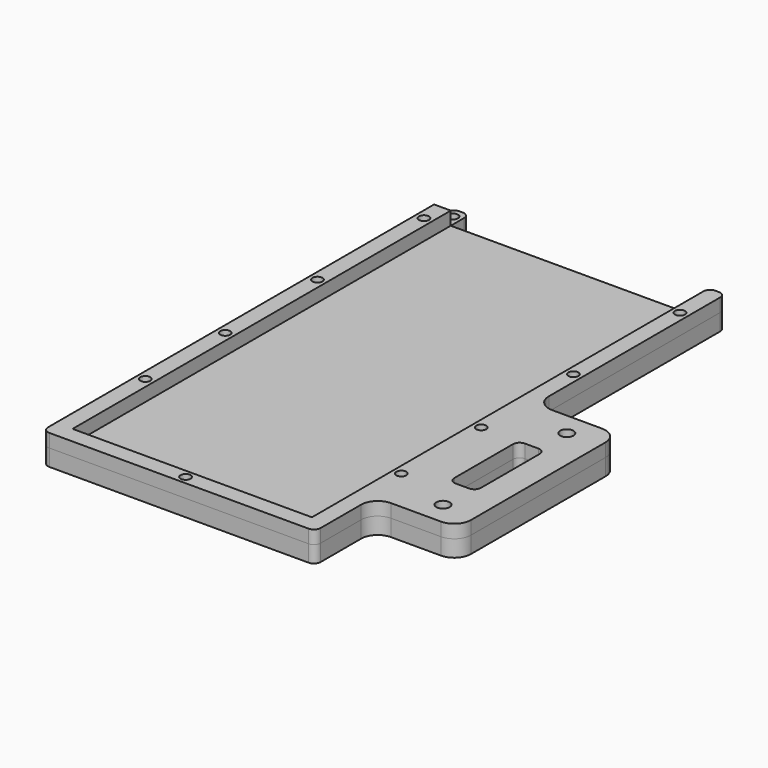
from build123d import *

# Parameters (mm, degrees)
F0_R     = 1.5
F0_R_2   = 2
F1_DEPTH = 9
F0_W     = 71.9
F0_H     = 142
F2_DEPTH = 5


with BuildPart() as f1:
    # F0 (on Top) → F1 (new body)
    with BuildSketch(Plane.XY):
        with BuildLine():
            Line((-46.151969, -60.459562), (-46.151969, 81.540438))
            Line((-46.151969, 81.540438), (-51.151969, 81.540438))
            Line((-51.151969, 81.540438), (-51.151969, -57.287913))
            Line((-51.151969, -57.287913), (-51.151969, -63.459562))
            ThreePointArc((-51.151969, -63.459562), (-50.566182, -64.873775), (-49.151969, -65.459562))
            Line((-49.151969, -65.459562), (28.748031, -65.459562))
            ThreePointArc((28.748031, -65.459562), (30.162245, -64.873775), (30.748031, -63.459562))
            Line((30.748031, -63.459562), (30.748031, -60.459562))
            Line((30.748031, -60.459562), (30.748031, -48.25))
            ThreePointArc((30.748031, -48.25), (32.212498, -44.714466), (35.748031, -43.25))
            Line((35.748031, -43.25), (50.748031, -43.25))
            ThreePointArc((50.748031, -43.25), (54.283565, -41.785534), (55.748031, -38.25))
            Line((55.748031, -38.25), (55.748031, 12.25))
            ThreePointArc((55.748031, 12.25), (54.283565, 15.785534), (50.748031, 17.25))
            Line((50.748031, 17.25), (35.748031, 17.25))
            ThreePointArc((35.748031, 17.25), (32.212498, 18.714466), (30.748031, 22.25))
            Line((30.748031, 22.25), (30.748031, 86.540438))
            ThreePointArc((30.748031, 86.540438), (30.162245, 87.954652), (28.748031, 88.540438))
            Line((28.748031, 88.540438), (27.748031, 88.540438))
            ThreePointArc((27.748031, 88.540438), (26.333818, 87.954652), (25.748031, 86.540438))
            Line((25.748031, 86.540438), (25.748031, 81.540438))
            Line((25.748031, 81.540438), (25.748031, -60.459562))
            Line((25.748031, -60.459562), (-46.151969, -60.459562))
        make_face()
        with Locations((-48.651969, -30)):
            Circle(F0_R, mode=Mode.SUBTRACT)
        with Locations((-10.201969, -62.959562)):
            Circle(F0_R, mode=Mode.SUBTRACT)
        with Locations((-48.651969, 0)):
            Circle(F0_R, mode=Mode.SUBTRACT)
        with Locations((28.248031, -30)):
            Circle(F0_R, mode=Mode.SUBTRACT)
        with Locations((45.748031, -36.25)):
            Circle(F0_R_2, mode=Mode.SUBTRACT)
        with Locations((28.248031, 0)):
            Circle(F0_R, mode=Mode.SUBTRACT)
        with BuildLine():
            Line((47.365876, -2), (47.365876, -13))
            Line((47.365876, -13), (47.365876, -24))
            ThreePointArc((47.365876, -24), (46.78009, -25.414214), (45.365876, -26))
            Line((45.365876, -26), (41.365876, -26))
            ThreePointArc((41.365876, -26), (39.951663, -25.414214), (39.365876, -24))
            Line((39.365876, -24), (39.365876, -13))
            Line((39.365876, -13), (39.365876, -2))
            ThreePointArc((39.365876, -2), (39.951663, -0.585786), (41.365876, 0))
            Line((41.365876, 0), (45.365876, 0))
            ThreePointArc((45.365876, 0), (46.78009, -0.585786), (47.365876, -2))
        make_face(mode=Mode.SUBTRACT)
        with Locations((45.748031, 10.25)):
            Circle(F0_R_2, mode=Mode.SUBTRACT)
        with Locations((-48.651969, 34.611352)):
            Circle(F0_R, mode=Mode.SUBTRACT)
        with Locations((-48.651969, 74.611352)):
            Circle(F0_R, mode=Mode.SUBTRACT)
        with Locations((28.248031, 34.611352)):
            Circle(F0_R, mode=Mode.SUBTRACT)
        with Locations((28.248031, 74.611352)):
            Circle(F0_R, mode=Mode.SUBTRACT)
    extrude(amount=F1_DEPTH)


with BuildPart() as f2:
    # F0 (on Top) → F2 (new body)
    with BuildSketch(Plane.XY):
        with Locations((-10.201969, 10.540438)):
            Rectangle(F0_W, F0_H)
        with BuildLine():
            Line((-51.151969, 81.540438), (-46.151969, 81.540438))
            Line((-46.151969, 81.540438), (-46.151969, 86.540438))
            ThreePointArc((-46.151969, 86.540438), (-46.737755, 87.954652), (-48.151969, 88.540438))
            Line((-48.151969, 88.540438), (-49.151969, 88.540438))
            ThreePointArc((-49.151969, 88.540438), (-50.566182, 87.954652), (-51.151969, 86.540438))
            Line((-51.151969, 86.540438), (-51.151969, 81.540438))
        make_face()
        with Locations((-48.651969, 85.540438)):
            Circle(F0_R, mode=Mode.SUBTRACT)
        with BuildLine():
            Line((-46.151969, -60.459562), (-46.151969, 81.540438))
            Line((-46.151969, 81.540438), (-51.151969, 81.540438))
            Line((-51.151969, 81.540438), (-51.151969, -57.287913))
            Line((-51.151969, -57.287913), (-51.151969, -63.459562))
            ThreePointArc((-51.151969, -63.459562), (-50.566182, -64.873775), (-49.151969, -65.459562))
            Line((-49.151969, -65.459562), (28.748031, -65.459562))
            ThreePointArc((28.748031, -65.459562), (30.162245, -64.873775), (30.748031, -63.459562))
            Line((30.748031, -63.459562), (30.748031, -60.459562))
            Line((30.748031, -60.459562), (30.748031, -48.25))
            ThreePointArc((30.748031, -48.25), (32.212498, -44.714466), (35.748031, -43.25))
            Line((35.748031, -43.25), (50.748031, -43.25))
            ThreePointArc((50.748031, -43.25), (54.283565, -41.785534), (55.748031, -38.25))
            Line((55.748031, -38.25), (55.748031, 12.25))
            ThreePointArc((55.748031, 12.25), (54.283565, 15.785534), (50.748031, 17.25))
            Line((50.748031, 17.25), (35.748031, 17.25))
            ThreePointArc((35.748031, 17.25), (32.212498, 18.714466), (30.748031, 22.25))
            Line((30.748031, 22.25), (30.748031, 86.540438))
            ThreePointArc((30.748031, 86.540438), (30.162245, 87.954652), (28.748031, 88.540438))
            Line((28.748031, 88.540438), (27.748031, 88.540438))
            ThreePointArc((27.748031, 88.540438), (26.333818, 87.954652), (25.748031, 86.540438))
            Line((25.748031, 86.540438), (25.748031, 81.540438))
            Line((25.748031, 81.540438), (25.748031, -60.459562))
            Line((25.748031, -60.459562), (-46.151969, -60.459562))
        make_face()
        with Locations((-48.651969, -30)):
            Circle(F0_R, mode=Mode.SUBTRACT)
        with Locations((-10.201969, -62.959562)):
            Circle(F0_R, mode=Mode.SUBTRACT)
        with Locations((-48.651969, 0)):
            Circle(F0_R, mode=Mode.SUBTRACT)
        with Locations((28.248031, -30)):
            Circle(F0_R, mode=Mode.SUBTRACT)
        with Locations((45.748031, -36.25)):
            Circle(F0_R_2, mode=Mode.SUBTRACT)
        with Locations((28.248031, 0)):
            Circle(F0_R, mode=Mode.SUBTRACT)
        with BuildLine():
            Line((47.365876, -2), (47.365876, -13))
            Line((47.365876, -13), (47.365876, -24))
            ThreePointArc((47.365876, -24), (46.78009, -25.414214), (45.365876, -26))
            Line((45.365876, -26), (41.365876, -26))
            ThreePointArc((41.365876, -26), (39.951663, -25.414214), (39.365876, -24))
            Line((39.365876, -24), (39.365876, -13))
            Line((39.365876, -13), (39.365876, -2))
            ThreePointArc((39.365876, -2), (39.951663, -0.585786), (41.365876, 0))
            Line((41.365876, 0), (45.365876, 0))
            ThreePointArc((45.365876, 0), (46.78009, -0.585786), (47.365876, -2))
        make_face(mode=Mode.SUBTRACT)
        with Locations((45.748031, 10.25)):
            Circle(F0_R_2, mode=Mode.SUBTRACT)
        with Locations((-48.651969, 34.611352)):
            Circle(F0_R, mode=Mode.SUBTRACT)
        with Locations((-48.651969, 74.611352)):
            Circle(F0_R, mode=Mode.SUBTRACT)
        with Locations((28.248031, 34.611352)):
            Circle(F0_R, mode=Mode.SUBTRACT)
        with Locations((28.248031, 74.611352)):
            Circle(F0_R, mode=Mode.SUBTRACT)
    extrude(amount=F2_DEPTH)


solid = Compound([f1.part, f2.part])
